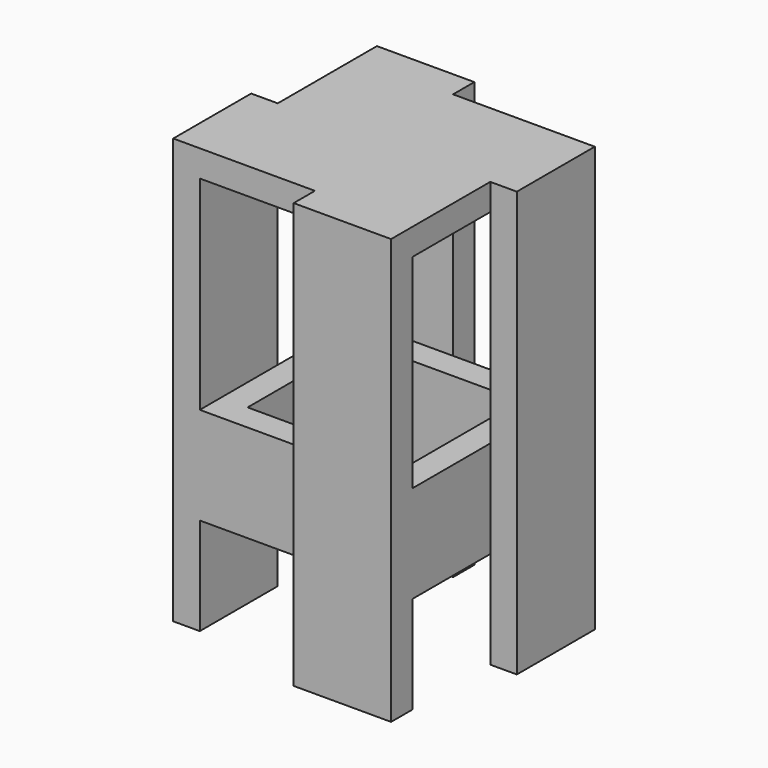
from build123d import *

# Parameters (mm, degrees)
F0_W      = 12
F0_H      = 5.5
F1_DEPTH  = 1.5
F2_W      = 5.5
F2_H      = 24
F3_DEPTH  = 1.5
F4_W      = 5.5
F4_H      = 22.5
F4_H_2    = 1.5
F5_DEPTH  = 1.5
F6_W      = 5.5
F6_H      = 24
F7_DEPTH  = 1.5
F8_W      = 5.5
F8_H      = 24
F9_DEPTH  = 1.5
F10_W     = 9.5
F10_H     = 5.5
F11_DEPTH = 1.5
F12_W     = 10.5
F12_H     = 5.5
F13_DEPTH = 1.5
F14_W     = 9.5
F14_H     = 5.5
F15_DEPTH = 1.5
F16_W     = 10.5
F16_H     = 5.5
F17_DEPTH = 1.5


with BuildPart() as f1:
    # F0 (on Top) → F1 (new body)
    with BuildSketch(Plane.XY):
        with Locations((14.625001, 11.201556)):
            Rectangle(F0_W, F0_H)
        with Locations((14.625001, 5.701556)):
            Rectangle(F0_W, F0_H)
    extrude(amount=F1_DEPTH)

    # F2 (on face) → F3 (join)
    with BuildSketch(Plane.XZ.offset(-2.951556)):
        with Locations((17.875001, -10.5)):
            Rectangle(F2_W, F2_H)
    extrude(amount=F3_DEPTH)

    # F4 (on face) → F5 (join)
    with BuildSketch(Plane(origin=(8.625001, 0, 0), x_dir=(0, -1, 0), z_dir=(-1, 0, 0))):
        with Locations((-5.701556, -11.25)):
            Rectangle(F4_W, F4_H)
        with Locations((-5.701556, 0.75)):
            Rectangle(F4_W, F4_H_2)
    extrude(amount=F5_DEPTH)

    # F6 (on face) → F7 (join)
    with BuildSketch(Plane(origin=(0, 13.951556, 0), x_dir=(-1, 0, 0), z_dir=(0, 1, 0))):
        with Locations((-11.375001, -10.5)):
            Rectangle(F6_W, F6_H)
    extrude(amount=F7_DEPTH)

    # F8 (on face) → F9 (join)
    with BuildSketch(Plane.YZ.offset(20.625001)):
        with Locations((11.201556, -10.5)):
            Rectangle(F8_W, F8_H)
    extrude(amount=F9_DEPTH)

    # F10 (on face) → F11 (join)
    with BuildSketch(Plane(origin=(8.625001, 0, 0), x_dir=(0, -1, 0), z_dir=(-1, 0, 0))):
        with Locations((-9.201556, -14.25)):
            Rectangle(F10_W, F10_H)
    extrude(amount=-F11_DEPTH)

    # F12 (on face) → F13 (join)
    with BuildSketch(Plane(origin=(0, 13.951556, 0), x_dir=(-1, 0, 0), z_dir=(0, 1, 0))):
        with Locations((-15.375001, -14.25)):
            Rectangle(F12_W, F12_H)
    extrude(amount=-F13_DEPTH)

    # F14 (on face) → F15 (join)
    with BuildSketch(Plane.YZ.offset(20.625001)):
        with Locations((7.701556, -14.25)):
            Rectangle(F14_W, F14_H)
    extrude(amount=-F15_DEPTH)

    # F16 (on face) → F17 (join)
    with BuildSketch(Plane.XZ.offset(-2.951556)):
        with Locations((13.875001, -14.25)):
            Rectangle(F16_W, F16_H)
    extrude(amount=-F17_DEPTH)


solid = f1.part
